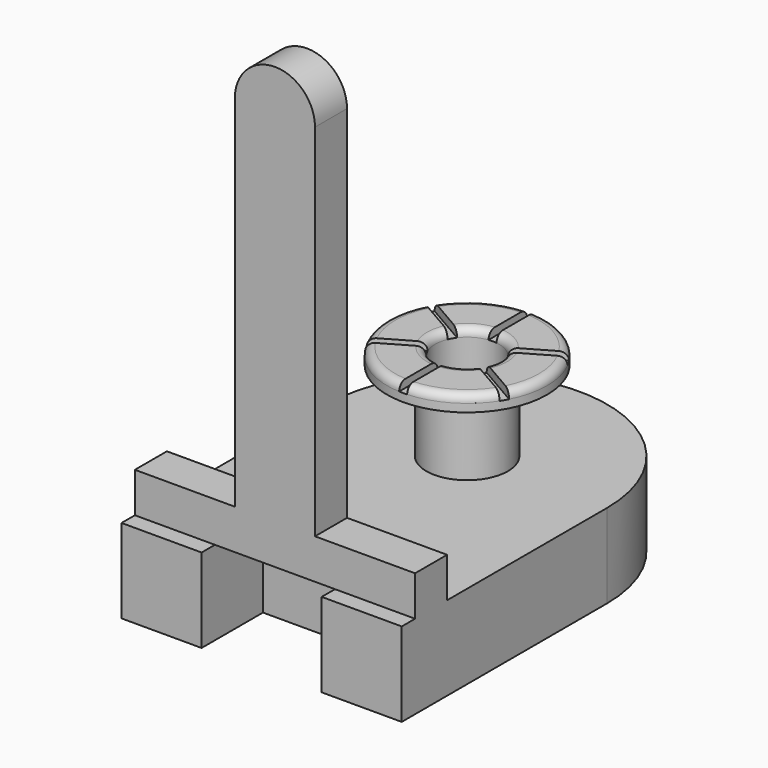
from build123d import *

# Parameters (mm, degrees)
SKETCH_R           = 0.5
SKETCH_W           = 1.5
SKETCH_H           = 1
PAD_DEPTH          = 0.5
PAD_DEPTH_BACK     = 0.55
SKETCH001_W        = 4.919434
SKETCH001_H        = 5.037946
POCKET_DEPTH       = 1.05
POCKET_DEPTH_BACK  = 1.55
SKETCH006_W        = 1.496239
SKETCH006_H        = 0.320585
POCKET003_DEPTH    = 5
SKETCH002_R        = 0.51
SKETCH002_R_2      = 0.4
PAD001_DEPTH       = 1.5
SKETCH003_R        = 1
PAD002_DEPTH       = 0.2
SKETCH004_R        = 0.4
POCKET001_DEPTH    = 1
FILLET_R           = 0.1
SKETCH005_W        = 0.1
SKETCH005_H        = 1.784702
POCKET002_DEPTH    = 0.1
POLARPATTERN_COUNT = 6
PAD003_DEPTH       = 0.25


with BuildPart() as part:
    # Sketch → Pad (new body, two sides)
    with BuildSketch(Plane.XY) as pad_sk:
        with BuildLine():
            ThreePointArc((1.75, 0), (0, 1.75), (-1.75, 0))
            Line((-1.75, 0), (-1.75, -4.25))
            Line((-1.75, -4.25), (-1.75, -8))
            Line((-1.75, -8), (1.75, -8))
            Line((1.75, -8), (1.75, -4.25))
            Line((1.75, -4.25), (1.75, 0))
        make_face()
        Circle(SKETCH_R, mode=Mode.SUBTRACT)
        with Locations((0, -2.75)):
            Rectangle(SKETCH_W, SKETCH_H, mode=Mode.SUBTRACT)
    extrude(amount=PAD_DEPTH)
    extrude(pad_sk.sketch, amount=-PAD_DEPTH_BACK)

    # Sketch001 → Pocket (cut, two sides)
    with BuildSketch(Plane.XY) as pocket_sk:
        with Locations((-0.357018, -5.727314)):
            Rectangle(SKETCH001_W, SKETCH001_H)
    extrude(amount=-POCKET_DEPTH, mode=Mode.SUBTRACT)
    extrude(pocket_sk.sketch, amount=POCKET_DEPTH_BACK, mode=Mode.SUBTRACT)

    # Sketch006 → Pocket003 (cut)
    with BuildSketch(Plane.XY):
        with Locations((-0.005068, -3.405655)):
            Rectangle(SKETCH006_W, SKETCH006_H)
    extrude(amount=-POCKET003_DEPTH, mode=Mode.SUBTRACT)

    # Sketch002 → Pad001 (join)
    with BuildSketch(Plane.XY):
        Circle(SKETCH002_R)
        Circle(SKETCH002_R_2, mode=Mode.SUBTRACT)
    extrude(amount=PAD001_DEPTH)

    # Sketch003 → Pad002 (join)
    with BuildSketch(Plane.XY.offset(1.5)):
        Circle(SKETCH003_R)
    extrude(amount=PAD002_DEPTH)

    # Sketch004 → Pocket001 (cut)
    with BuildSketch(Plane.XY.offset(1.7)):
        Circle(SKETCH004_R)
    extrude(amount=-POCKET001_DEPTH, mode=Mode.SUBTRACT)

    # Fillet
    fillet_edges = [part.edges().sort_by_distance(p)[0] for p in [
        (-0.4, 0, 1.7),
        (-1, 0, 1.7),
    ]]
    fillet(fillet_edges, radius=FILLET_R)

    # Sketch005 → Pocket002 (cut)
    with BuildSketch(Plane.XY.offset(1.7)):
        with Locations((0, 0.892351)):
            Rectangle(SKETCH005_W, SKETCH005_H)
    pocket002 = extrude(amount=-POCKET002_DEPTH, mode=Mode.SUBTRACT)

    # PolarPattern: Pocket002 ×6 about axis
    polarpattern_axis = Axis((0, 0, 1.7), (0, 0, 1))
    for i in range(1, POLARPATTERN_COUNT):
        add(pocket002.rotate(polarpattern_axis, i * 360 / POLARPATTERN_COUNT), mode=Mode.SUBTRACT)

    # Sketch007 → Pad003 (join, symmetric)
    with BuildSketch(Plane(origin=(0, -2.75, -0.05), x_dir=(-1, 0, 0), z_dir=(0, -1, 0))):
        with BuildLine():
            Line((-1.75, -0.55), (1.75, -0.55))
            Line((1.75, -0.55), (1.75, -1.05))
            Line((0.5, -1.05), (1.75, -1.05))
            Line((0.5, -5.55), (0.5, -1.05))
            ThreePointArc((-0.5, -5.55), (0, -6.05), (0.5, -5.55))
            Line((-0.5, -1.05), (-0.5, -5.55))
            Line((-1.75, -1.05), (-0.5, -1.05))
            Line((-1.75, -1.05), (-1.75, -0.55))
        make_face()
    extrude(amount=PAD003_DEPTH, both=True)


with BuildPart() as part_1:
    # Body001 placement: moved
    add(part.part.moved(Location((-5, 0, 0))))


solid = part_1.part
